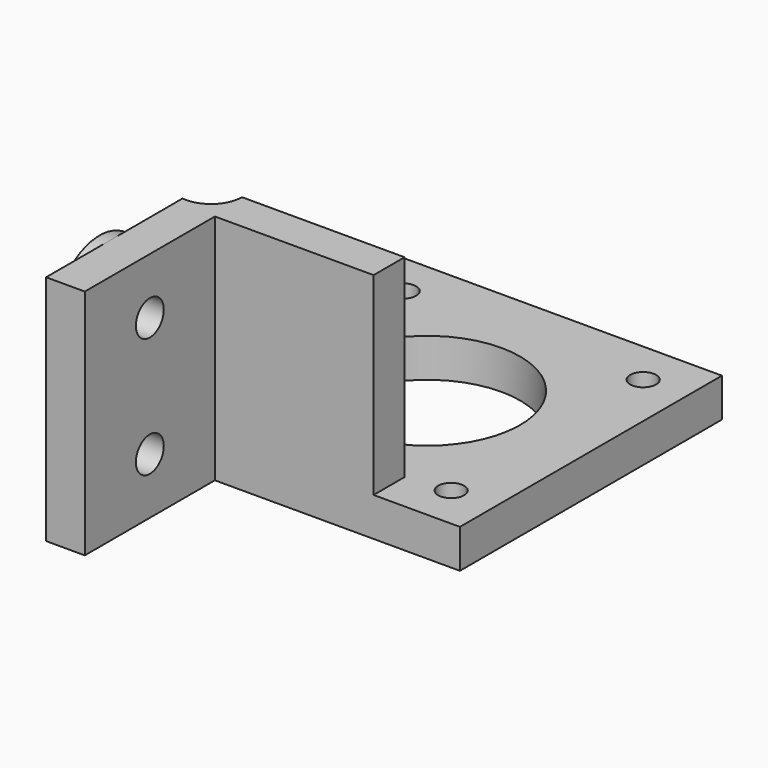
from build123d import *

# Parameters (mm, degrees)
CUBE003_W                     = 500
CUBE003_H                     = 500
CUBE003_DEPTH                 = 500
CYLINDER006_R                 = 2.25
CYLINDER006_DEPTH             = 1000
CYLINDER005_R                 = 2.25
CYLINDER005_DEPTH             = 1000
CYLINDER004_R                 = 7.25
CYLINDER004_DEPTH             = 6.5
CYLINDER003_R                 = 7.25
CYLINDER003_DEPTH             = 6.5
GROUP003_PLACEMENT_ANGLE      = 180
CYLINDER002_R                 = 7.25
CYLINDER002_DEPTH             = 6.5
CYLINDER001_R                 = 7.25
CYLINDER001_DEPTH             = 6.5
CYLINDER_R                    = 4
CYLINDER_DEPTH                = 200
CUBE002_W                     = 60
CUBE002_H                     = 21
CUBE002_DEPTH                 = 21
CUBE001_W                     = 30
CUBE001_H                     = 31
CUBE001_DEPTH                 = 26
DIFFERENCE002_PITCH_ANGLE     = 90
DIFFERENCE002_PLACEMENT_ANGLE = 90
REFINELINEAREXTRUDE_R         = 12
REFINELINEAREXTRUDE_R_2       = 1.675
LINEAREXTRUDE_DEPTH           = 20
CUBE_W                        = 42.3
CUBE_H                        = 42.3
CUBE_DEPTH                    = 5


with BuildPart() as cube003:
    # cube003 → cube003 (new body)
    with BuildSketch(Plane(origin=(-250, -510, -250), x_dir=(1, 0, 0), z_dir=(0, 0, 1))):
        with Locations((250, 250)):
            Rectangle(CUBE003_W, CUBE003_H)
    extrude(amount=CUBE003_DEPTH)


with BuildPart() as cylinder006:
    # cylinder006 → cylinder006 (new body)
    with BuildSketch(Plane(origin=(15.5, 500, 0), x_dir=(1, 0, 0), z_dir=(0, -1, 0))):
        Circle(CYLINDER006_R)
    extrude(amount=CYLINDER006_DEPTH)


with BuildPart() as union002:
    # cylinder005 → cylinder005 (new body)
    with BuildSketch(Plane.XZ.offset(-500)):
        Circle(CYLINDER005_R)
    extrude(amount=CYLINDER005_DEPTH)

    # Group005: union cylinder006
    add(cylinder006.part)


with BuildPart() as union002_1:
    # Group005 placement: moved
    add(union002.part.moved(Location((2.25, 0, -15.5))))

    # union002: union cube003
    add(cube003.part)


with BuildPart() as cylinder004:
    # cylinder004 → cylinder004 (new body)
    with BuildSketch(Plane(origin=(15.5, 0, 0), x_dir=(1, 0, 0), z_dir=(0, -1, 0))):
        Circle(CYLINDER004_R)
    extrude(amount=CYLINDER004_DEPTH)


with BuildPart() as group003:
    # cylinder003 → cylinder003 (new body)
    with BuildSketch(Plane.XZ):
        Circle(CYLINDER003_R)
    extrude(amount=CYLINDER003_DEPTH)

    # Group003: union cylinder004
    add(cylinder004.part)


with BuildPart() as group003_1:
    # Group003 placement: moved
    add(group003.part.moved(Location((2.25, 10.5, -15.5))).rotate(Axis((2.25, 10.5, -15.5), (1, 0, 0)), GROUP003_PLACEMENT_ANGLE))


with BuildPart() as cylinder002:
    # cylinder002 → cylinder002 (new body)
    with BuildSketch(Plane(origin=(15.5, 0, 0), x_dir=(1, 0, 0), z_dir=(0, -1, 0))):
        Circle(CYLINDER002_R)
    extrude(amount=CYLINDER002_DEPTH)


with BuildPart() as group004:
    # cylinder001 → cylinder001 (new body)
    with BuildSketch(Plane.XZ):
        Circle(CYLINDER001_R)
    extrude(amount=CYLINDER001_DEPTH)

    # Group002: union cylinder002
    add(cylinder002.part)


with BuildPart() as group004_1:
    # Group002 placement: moved
    add(group004.part.moved(Location((2.25, -10.5, -15.5))))

    # Group004: union Group003
    add(group003_1.part)


with BuildPart() as cylinder:
    # cylinder → cylinder (new body)
    with BuildSketch(Plane(origin=(-100, 15, 13), x_dir=(0, 1, 0), z_dir=(1, 0, 0))):
        Circle(CYLINDER_R)
    extrude(amount=CYLINDER_DEPTH)


with BuildPart() as union:
    # cube002 → cube002 (new body)
    with BuildSketch(Plane(origin=(-30, -10.5, -13), x_dir=(1, 0, 0), z_dir=(0, 0, 1))):
        with Locations((30, 10.5)):
            Rectangle(CUBE002_W, CUBE002_H)
    extrude(amount=CUBE002_DEPTH)

    # union: union cylinder
    add(cylinder.part)


with BuildPart() as difference002:
    # cube001 → cube001 (new body)
    with BuildSketch(Plane(origin=(-15, -15.5, -13), x_dir=(1, 0, 0), z_dir=(0, 0, 1))):
        with Locations((15, 15.5)):
            Rectangle(CUBE001_W, CUBE001_H)
    extrude(amount=CUBE001_DEPTH)

    # difference001: cut union
    add(union.part, mode=Mode.SUBTRACT)


with BuildPart() as difference002_1:
    # difference001 placement: moved
    add(difference002.part.moved(Location((10, 0, -13))))

    # union001: union Group004
    add(group004_1.part)

    # difference002: cut union002
    add(union002_1.part, mode=Mode.SUBTRACT)


with BuildPart() as difference002_2:
    # difference002 pitch: moved
    add(difference002_1.part.rotate(Axis((0, 0, 0), (0, 1, 0)), DIFFERENCE002_PITCH_ANGLE))


with BuildPart() as difference002_3:
    # difference002 placement: moved
    add(difference002_2.part.moved(Location((21.15, 5, 25))).rotate(Axis((21.15, 5, 25), (0, 0, 1)), DIFFERENCE002_PLACEMENT_ANGLE))


with BuildPart() as linearextrude:
    # RefineLinearExtrude → LinearExtrude (new body)
    with BuildSketch(Plane(origin=(0, 0, 0), x_dir=(0, 1, 0), z_dir=(0, 0, 1))):
        Circle(REFINELINEAREXTRUDE_R)
        with Locations((15.5, -15.5)):
            Circle(REFINELINEAREXTRUDE_R_2)
        with Locations((15.5, 15.5)):
            Circle(REFINELINEAREXTRUDE_R_2)
        with Locations((-15.5, 15.5)):
            Circle(REFINELINEAREXTRUDE_R_2)
        with Locations((-15.5, -15.5)):
            Circle(REFINELINEAREXTRUDE_R_2)
    extrude(amount=LINEAREXTRUDE_DEPTH)


with BuildPart() as linearextrude_1:
    # LinearExtrude placement: moved
    add(linearextrude.part.moved(Location((21.15, 21.15, -10))))


with BuildPart() as group006:
    # cube → cube (new body)
    with BuildSketch(Plane.XY):
        with Locations((21.15, 21.15)):
            Rectangle(CUBE_W, CUBE_H)
    extrude(amount=CUBE_DEPTH)

    # difference: cut LinearExtrude
    add(linearextrude_1.part, mode=Mode.SUBTRACT)

    # Group006: union difference002
    add(difference002_3.part)


solid = group006.part
